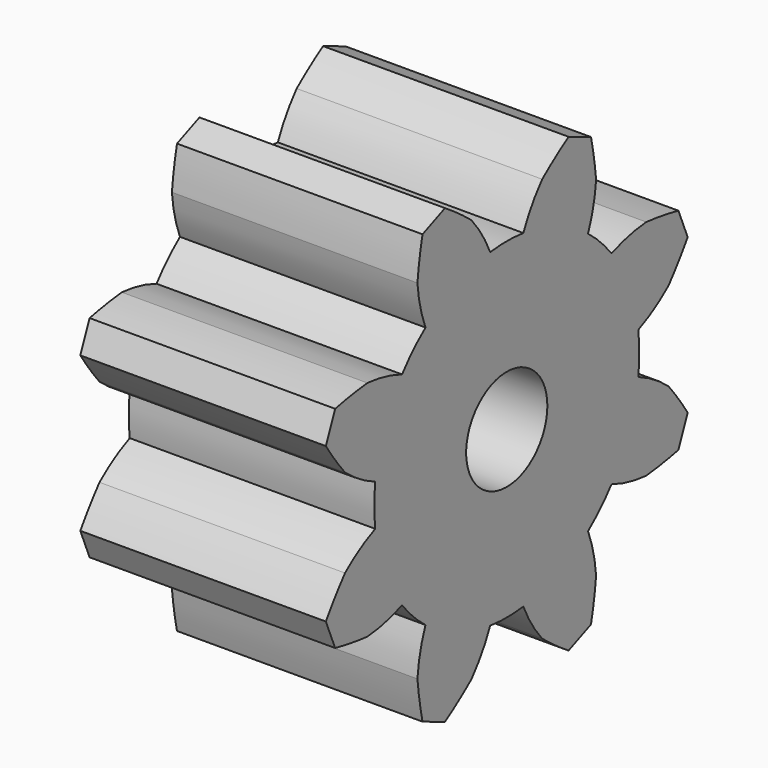
from build123d import *

# Parameters (mm, degrees)
F0_R     = 3.1
F0_W     = 3.1
F0_H     = 7.2
F1_DEPTH = 15
F2_DEPTH = 11
F3_R     = 2.05
F4_DEPTH = 5
F5_DEPTH = 25


with BuildPart() as f1:
    # F0 (on Right) → F1 (new body)
    with BuildSketch(Plane.YZ):
        with BuildLine():
            ThreePointArc((2.704842, 12.353416), (1.898315, 11.252912), (1.266883, 10.043413))
            ThreePointArc((1.266883, 10.043413), (0, 10.123), (-1.266883, 10.043413))
            ThreePointArc((-1.266883, 10.043413), (-1.898315, 11.252912), (-2.704842, 12.353416))
            ThreePointArc((-2.704842, 12.353416), (-3.690651, 13.113822), (-4.718141, 13.816887))
            Line((-4.718141, 13.816887), (-6.433785, 13.106244))
            ThreePointArc((-6.433785, 13.106244), (-6.663188, 11.882557), (-6.822573, 10.647796))
            ThreePointArc((-6.822573, 10.647796), (-6.614699, 9.299322), (-6.205943, 7.997587))
            ThreePointArc((-6.205943, 7.997587), (-7.158042, 7.158042), (-7.997587, 6.205943))
            ThreePointArc((-7.997587, 6.205943), (-9.299322, 6.614699), (-10.647796, 6.822573))
            ThreePointArc((-10.647796, 6.822573), (-11.882557, 6.663188), (-13.106244, 6.433785))
            Line((-13.106244, 6.433785), (-13.816887, 4.718141))
            ThreePointArc((-13.816887, 4.718141), (-13.113822, 3.690651), (-12.353416, 2.704842))
            ThreePointArc((-12.353416, 2.704842), (-11.252912, 1.898315), (-10.043413, 1.266883))
            ThreePointArc((-10.043413, 1.266883), (-10.123, 0), (-10.043413, -1.266883))
            ThreePointArc((-10.043413, -1.266883), (-11.252912, -1.898315), (-12.353416, -2.704842))
            ThreePointArc((-12.353416, -2.704842), (-13.113822, -3.690651), (-13.816887, -4.718141))
            Line((-13.816887, -4.718141), (-13.106244, -6.433785))
            ThreePointArc((-13.106244, -6.433785), (-11.882557, -6.663188), (-10.647796, -6.822573))
            ThreePointArc((-10.647796, -6.822573), (-9.299322, -6.614699), (-7.997587, -6.205943))
            ThreePointArc((-7.997587, -6.205943), (-7.158042, -7.158042), (-6.205943, -7.997587))
            ThreePointArc((-6.205943, -7.997587), (-6.614699, -9.299322), (-6.822573, -10.647796))
            ThreePointArc((-6.822573, -10.647796), (-6.663188, -11.882557), (-6.433785, -13.106244))
            Line((-6.433785, -13.106244), (-4.718141, -13.816887))
            ThreePointArc((-4.718141, -13.816887), (-3.690651, -13.113822), (-2.704842, -12.353416))
            ThreePointArc((-2.704842, -12.353416), (-1.898315, -11.252912), (-1.266883, -10.043413))
            ThreePointArc((-1.266883, -10.043413), (0, -10.123), (1.266883, -10.043413))
            ThreePointArc((1.266883, -10.043413), (1.898315, -11.252912), (2.704842, -12.353416))
            ThreePointArc((2.704842, -12.353416), (3.690651, -13.113822), (4.718141, -13.816887))
            Line((4.718141, -13.816887), (6.433785, -13.106244))
            ThreePointArc((6.433785, -13.106244), (6.663188, -11.882557), (6.822573, -10.647796))
            ThreePointArc((6.822573, -10.647796), (6.614699, -9.299322), (6.205943, -7.997587))
            ThreePointArc((6.205943, -7.997587), (7.158042, -7.158042), (7.997587, -6.205943))
            ThreePointArc((7.997587, -6.205943), (9.299322, -6.614699), (10.647796, -6.822573))
            ThreePointArc((10.647796, -6.822573), (11.882557, -6.663188), (13.106244, -6.433785))
            Line((13.106244, -6.433785), (13.816887, -4.718141))
            ThreePointArc((13.816887, -4.718141), (13.113822, -3.690651), (12.353416, -2.704842))
            ThreePointArc((12.353416, -2.704842), (11.252912, -1.898315), (10.043413, -1.266883))
            ThreePointArc((10.043413, -1.266883), (10.123, 0), (10.043413, 1.266883))
            ThreePointArc((10.043413, 1.266883), (11.252912, 1.898315), (12.353416, 2.704842))
            ThreePointArc((12.353416, 2.704842), (13.113822, 3.690651), (13.816887, 4.718141))
            Line((13.816887, 4.718141), (13.106244, 6.433785))
            ThreePointArc((13.106244, 6.433785), (11.882557, 6.663188), (10.647796, 6.822573))
            ThreePointArc((10.647796, 6.822573), (9.299322, 6.614699), (7.997587, 6.205943))
            ThreePointArc((7.997587, 6.205943), (7.158042, 7.158042), (6.205943, 7.997587))
            ThreePointArc((6.205943, 7.997587), (6.614699, 9.299322), (6.822573, 10.647796))
            ThreePointArc((6.822573, 10.647796), (6.663188, 11.882557), (6.433785, 13.106244))
            Line((6.433785, 13.106244), (4.718141, 13.816887))
            ThreePointArc((4.718141, 13.816887), (3.690651, 13.113822), (2.704842, 12.353416))
        make_face()
        Circle(F0_R, mode=Mode.SUBTRACT)
        with Locations((6.55, 0)):
            Rectangle(F0_W, F0_H, mode=Mode.SUBTRACT)
        with Locations((6.55, 0)):
            Rectangle(F0_W, F0_H)
    extrude(amount=F1_DEPTH)

    # F0 (on Right) → F2 (cut)
    with BuildSketch(Plane.YZ):
        with Locations((6.55, 0)):
            Rectangle(F0_W, F0_H)
    extrude(amount=F2_DEPTH, mode=Mode.SUBTRACT)

    # F3 (on face) → F4 (cut)
    with BuildSketch(Plane(origin=(0, 5, 0), x_dir=(-1, 0, 0), z_dir=(0, 1, 0))):
        with Locations((-5.5, 0)):
            Circle(F3_R)
    extrude(amount=-F4_DEPTH, mode=Mode.SUBTRACT)

    # F3 (on face) → F5 (cut)
    with BuildSketch(Plane(origin=(0, 5, 0), x_dir=(-1, 0, 0), z_dir=(0, 1, 0))):
        with Locations((-5.5, 0)):
            Circle(F3_R)
    extrude(amount=F5_DEPTH, mode=Mode.SUBTRACT)


solid = f1.part
